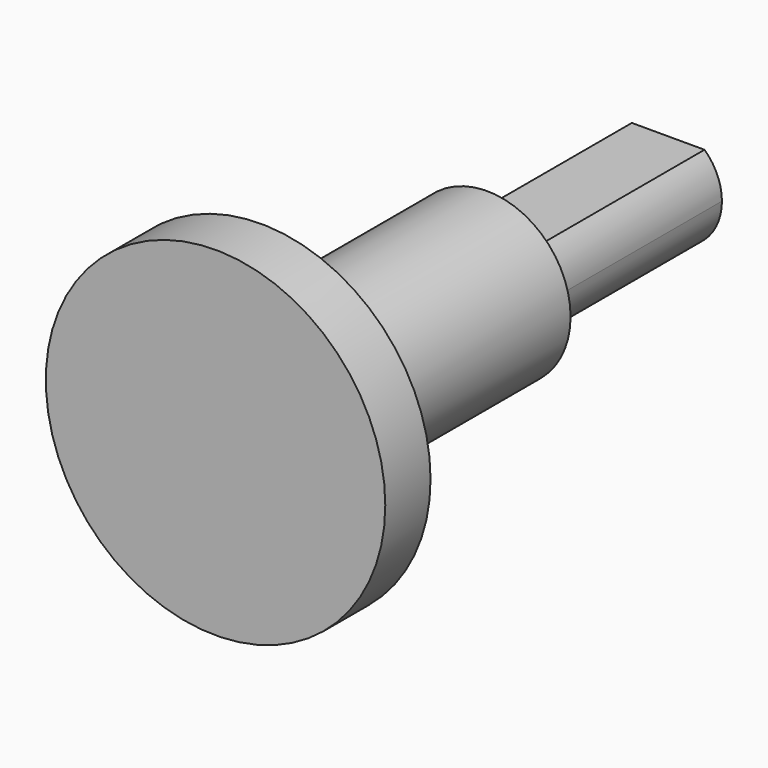
from build123d import *

# Parameters (mm, degrees)
F1_DEPTH = 10.16
F2_R     = 3.7465
F3_DEPTH = 12.7
F4_R     = 7.62
F5_DEPTH = 2.54


with BuildPart() as f1:
    # F0 (on Front) → F1 (new body)
    with BuildSketch(Plane.XZ):
        with BuildLine():
            Line((-2.413, 0), (0, 0))
            Line((0, 0), (0, 1.778))
            Line((0, 1.778), (-1.631345, 1.778))
            ThreePointArc((-1.631345, 1.778), (-2.208959, 0.971117), (-2.413, 0))
        make_face()
        with BuildLine():
            Line((2.413, 0), (0, 0))
            Line((0, 0), (0, -1.778))
            Line((0, -1.778), (1.631345, -1.778))
            ThreePointArc((1.631345, -1.778), (2.208959, -0.971117), (2.413, 0))
        make_face()
        with BuildLine():
            Line((0, -1.778), (0, 0))
            Line((0, 0), (-2.413, 0))
            ThreePointArc((-2.413, 0), (-2.208959, -0.971117), (-1.631345, -1.778))
            Line((-1.631345, -1.778), (0, -1.778))
        make_face()
        with BuildLine():
            Line((0, 1.778), (0, 0))
            Line((0, 0), (2.413, 0))
            ThreePointArc((2.413, 0), (2.208959, 0.971117), (1.631345, 1.778))
            Line((1.631345, 1.778), (0, 1.778))
        make_face()
    extrude(amount=F1_DEPTH)

    # F2 (on face) → F3 (join)
    with BuildSketch(Plane.XZ.offset(10.16)):
        Circle(F2_R)
    extrude(amount=F3_DEPTH)

    # F4 (on face) → F5 (join)
    with BuildSketch(Plane.XZ.offset(22.86)):
        Circle(F4_R)
    extrude(amount=F5_DEPTH)


solid = f1.part
